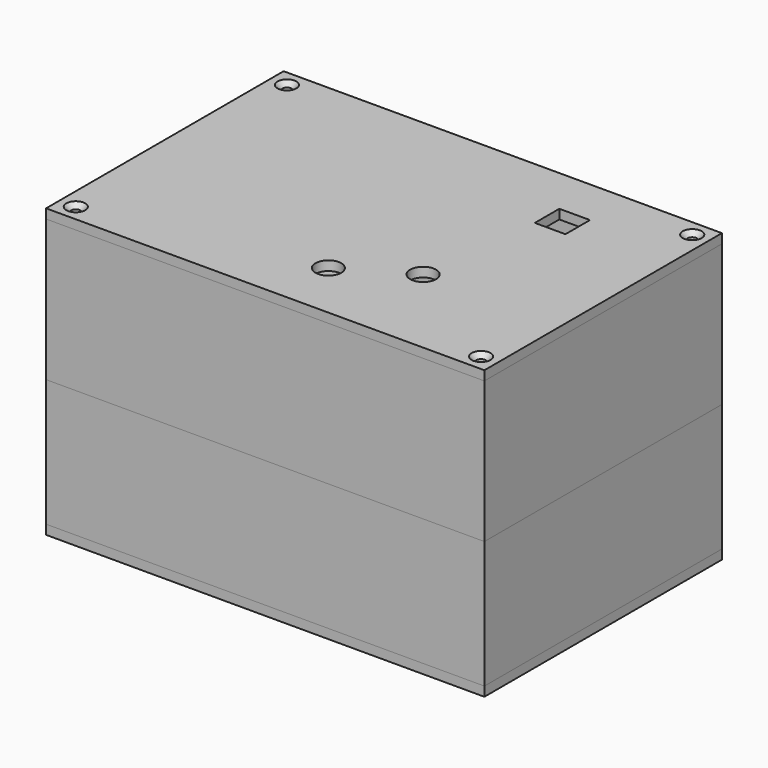
from build123d import *

# Parameters (mm, degrees)
SKETCH009_W                = 93
SKETCH009_H                = 63
SKETCH009_R                = 1
EXTRUDE010_DEPTH           = 2
CHAMFER001_SIZE            = 1
CHAMFER001_PLACEMENT_ANGLE = 180
SKETCH012_W                = 6.5
SKETCH012_H                = 6.5
EXTRUDE014_DEPTH           = 5
SKETCH011_R                = 2.75
EXTRUDE013_DEPTH           = 50
CHAMFER_SIZE               = 1
SKETCH008_W                = 4
SKETCH008_H                = 4
SKETCH008_R                = 1
EXTRUDE008_DEPTH           = 16
SKETCH010_W                = 5
SKETCH010_H                = 10
EXTRUDE011_DEPTH           = 10
SKETCH005_R                = 2
EXTRUDE005_DEPTH           = 10
SKETCH_W                   = 93
SKETCH_H                   = 63
EXTRUDE_DEPTH              = 2
SKETCH001_W                = 93
SKETCH001_H                = 63
SKETCH001_W_2              = 89
SKETCH001_H_2              = 59
EXTRUDE001_DEPTH           = 28
SKETCH002_R                = 2.5
SKETCH002_R_2              = 1
EXTRUDE002_DEPTH           = 5
SKETCH003_W                = 93
SKETCH003_H                = 63
SKETCH003_W_2              = 89
SKETCH003_H_2              = 59
EXTRUDE003_DEPTH           = 25
EXTRUDE012_DEPTH           = 10
SKETCH007_R                = 2
EXTRUDE007_DEPTH           = 10
SKETCH004_W                = 93
SKETCH004_H                = 63
EXTRUDE004_DEPTH           = 2
EXTRUDE009_DEPTH           = 16


with BuildPart() as extrude010:
    # Sketch009 → Extrude010 (new body)
    with BuildSketch(Plane.XY.offset(30)):
        Rectangle(SKETCH009_W, SKETCH009_H)
        with Locations((-43, 28)):
            Circle(SKETCH009_R, mode=Mode.SUBTRACT)
        with Locations((43, 28)):
            Circle(SKETCH009_R, mode=Mode.SUBTRACT)
        with Locations((43, -28)):
            Circle(SKETCH009_R, mode=Mode.SUBTRACT)
        with Locations((-43, -28)):
            Circle(SKETCH009_R, mode=Mode.SUBTRACT)
    extrude(amount=EXTRUDE010_DEPTH)


with BuildPart() as obj1:
    # Chamfer001 base: copy of Extrude010
    add(extrude010.part)

    # Chamfer001
    chamfer001_edges = [obj1.edges().sort_by_distance(p)[0] for p in [
        (-44, -28, 32),
        (42, -28, 32),
        (42, 28, 32),
        (-44, 28, 32),
    ]]
    chamfer(chamfer001_edges, length=CHAMFER001_SIZE)


with BuildPart() as obj1_1:
    # Chamfer001 placement: moved
    add(obj1.part.moved(Location((0, 0, 3))).rotate(Axis((0, 0, 3), (0, 1, 0)), CHAMFER001_PLACEMENT_ANGLE))


with BuildPart() as obj2:
    # Sketch012 → Extrude014 (new body)
    with BuildSketch(Plane.XY.offset(32)):
        with Locations((23.25, 18.25)):
            Rectangle(SKETCH012_W, SKETCH012_H)
    extrude(amount=-EXTRUDE014_DEPTH)


with BuildPart() as taladrosleds:
    # Sketch011 → Extrude013 (new body)
    with BuildSketch(Plane.XY.offset(7)):
        with Locations((17.1, -11)):
            Circle(SKETCH011_R)
        with Locations((3.4, -19)):
            Circle(SKETCH011_R)
    extrude(amount=EXTRUDE013_DEPTH)


with BuildPart() as tapacajapcb002:
    # Chamfer base: copy of Extrude010
    add(extrude010.part)

    # Chamfer
    chamfer_edges = [tapacajapcb002.edges().sort_by_distance(p)[0] for p in [
        (-44, -28, 32),
        (42, -28, 32),
        (42, 28, 32),
        (-44, 28, 32),
    ]]
    chamfer(chamfer_edges, length=CHAMFER_SIZE)

    # Cut004: cut TaladrosLEDs
    add(taladrosleds.part, mode=Mode.SUBTRACT)

    # Cut005: cut obj2
    add(obj2.part, mode=Mode.SUBTRACT)


with BuildPart() as tornillostapacajapcb:
    # Sketch008 → Extrude008 (new body)
    with BuildSketch(Plane.XY.offset(30)):
        with Locations((-42.5, 27.5)):
            Rectangle(SKETCH008_W, SKETCH008_H)
        with Locations((-43, 28)):
            Circle(SKETCH008_R, mode=Mode.SUBTRACT)
        with Locations((42.5, 27.5)):
            Rectangle(SKETCH008_W, SKETCH008_H)
        with Locations((43, 28)):
            Circle(SKETCH008_R, mode=Mode.SUBTRACT)
        with Locations((-42.5, -27.5)):
            Rectangle(SKETCH008_W, SKETCH008_H)
        with Locations((-43, -28)):
            Circle(SKETCH008_R, mode=Mode.SUBTRACT)
        with Locations((42.5, -27.5)):
            Rectangle(SKETCH008_W, SKETCH008_H)
        with Locations((43, -28)):
            Circle(SKETCH008_R, mode=Mode.SUBTRACT)
    extrude(amount=-EXTRUDE008_DEPTH)


with BuildPart() as huecocables:
    # Sketch010 → Extrude011 (new body)
    with BuildSketch(Plane.XY.offset(2)):
        with Locations((-41.5, 10)):
            Rectangle(SKETCH010_W, SKETCH010_H)
    extrude(amount=-EXTRUDE011_DEPTH)


with BuildPart() as extrude005:
    # Sketch005 → Extrude005 (new body)
    with BuildSketch(Plane.XY.offset(2)):
        with Locations((-41.5, 0)):
            Circle(SKETCH005_R)
        with Locations((41.5, 0)):
            Circle(SKETCH005_R)
    extrude(amount=-EXTRUDE005_DEPTH)


with BuildPart() as basecajapcb001:
    # Sketch → Extrude (new body)
    with BuildSketch(Plane.XY):
        Rectangle(SKETCH_W, SKETCH_H)
    extrude(amount=EXTRUDE_DEPTH)

    # Cut: cut Extrude005
    add(extrude005.part, mode=Mode.SUBTRACT)

    # Cut002: cut HuecoCables
    add(huecocables.part, mode=Mode.SUBTRACT)


with BuildPart() as obj3:
    # Sketch001 → Extrude001 (new body)
    with BuildSketch(Plane.XY.offset(2)):
        Rectangle(SKETCH001_W, SKETCH001_H)
        Rectangle(SKETCH001_W_2, SKETCH001_H_2, mode=Mode.SUBTRACT)
    extrude(amount=EXTRUDE001_DEPTH)


with BuildPart() as basecajapcb002:
    # Sketch002 → Extrude002 (new body)
    with BuildSketch(Plane.XY.offset(2)):
        with Locations((-37, 20)):
            Circle(SKETCH002_R)
        with Locations((-37, 20)):
            Circle(SKETCH002_R_2, mode=Mode.SUBTRACT)
        with Locations((-37, -20)):
            Circle(SKETCH002_R)
        with Locations((-37, -20)):
            Circle(SKETCH002_R_2, mode=Mode.SUBTRACT)
        with Locations((37, 20)):
            Circle(SKETCH002_R)
        with Locations((37, 20)):
            Circle(SKETCH002_R_2, mode=Mode.SUBTRACT)
        with Locations((37, -20)):
            Circle(SKETCH002_R)
        with Locations((37, -20)):
            Circle(SKETCH002_R_2, mode=Mode.SUBTRACT)
    extrude(amount=EXTRUDE002_DEPTH)

    # Fusion: union TornillosTapaCajaPCB, BaseCajaPCB001, obj3
    add(tornillostapacajapcb.part)
    add(basecajapcb001.part)
    add(obj3.part)


with BuildPart() as obj4:
    # Sketch003 → Extrude003 (new body)
    with BuildSketch(Plane(origin=(0, 0, 0), x_dir=(1, 0, 0), z_dir=(0, 0, -1))):
        Rectangle(SKETCH003_W, SKETCH003_H)
        Rectangle(SKETCH003_W_2, SKETCH003_H_2, mode=Mode.SUBTRACT)
    extrude(amount=EXTRUDE003_DEPTH)


with BuildPart() as obj4_1:
    # Extrude003 placement: moved
    add(obj4.part.moved(Location((0, 0, -2))))


with BuildPart() as huecocables001:
    # Sketch010 → Extrude012 (new body)
    with BuildSketch(Plane.XY.offset(2)):
        with Locations((-41.5, 10)):
            Rectangle(SKETCH010_W, SKETCH010_H)
    extrude(amount=-EXTRUDE012_DEPTH)


with BuildPart() as extrude007:
    # Sketch007 → Extrude007 (new body)
    with BuildSketch(Plane.XY.offset(2)):
        with Locations((-41.5, 0)):
            Circle(SKETCH007_R)
        with Locations((41.5, 0)):
            Circle(SKETCH007_R)
    extrude(amount=-EXTRUDE007_DEPTH)


with BuildPart() as obj5:
    # Sketch004 → Extrude004 (new body)
    with BuildSketch(Plane.XY):
        Rectangle(SKETCH004_W, SKETCH004_H)
    extrude(amount=EXTRUDE004_DEPTH)


with BuildPart() as obj5_1:
    # Extrude004 placement: moved
    add(obj5.part.moved(Location((0, 0, -2))))

    # Cut001: cut Extrude007
    add(extrude007.part, mode=Mode.SUBTRACT)

    # Cut003: cut HuecoCables001
    add(huecocables001.part, mode=Mode.SUBTRACT)


with BuildPart() as obj6:
    # Sketch008 → Extrude009 (new body)
    with BuildSketch(Plane.XY.offset(30)):
        with Locations((-42.5, 27.5)):
            Rectangle(SKETCH008_W, SKETCH008_H)
        with Locations((-43, 28)):
            Circle(SKETCH008_R, mode=Mode.SUBTRACT)
        with Locations((42.5, 27.5)):
            Rectangle(SKETCH008_W, SKETCH008_H)
        with Locations((43, 28)):
            Circle(SKETCH008_R, mode=Mode.SUBTRACT)
        with Locations((-42.5, -27.5)):
            Rectangle(SKETCH008_W, SKETCH008_H)
        with Locations((-43, -28)):
            Circle(SKETCH008_R, mode=Mode.SUBTRACT)
        with Locations((42.5, -27.5)):
            Rectangle(SKETCH008_W, SKETCH008_H)
        with Locations((43, -28)):
            Circle(SKETCH008_R, mode=Mode.SUBTRACT)
    extrude(amount=-EXTRUDE009_DEPTH)


with BuildPart() as obj6_1:
    # Extrude009 placement: moved
    add(obj6.part.moved(Location((0, 0, -41))))

    # Fusion001: union obj4, obj5
    add(obj4_1.part)
    add(obj5_1.part)


solid = Compound([obj1_1.part, tapacajapcb002.part, basecajapcb002.part, obj6_1.part])
